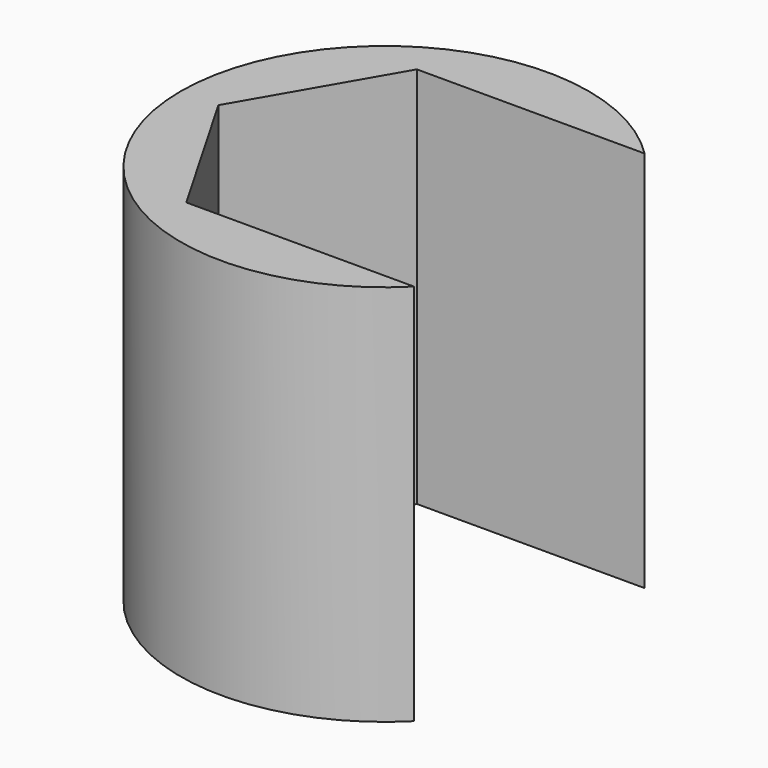
from build123d import *

# Parameters (mm, degrees)
F0_R     = 27.098
F1_DEPTH = 50.8
F2_W     = 42.396251
F2_H     = 38.265
F3_DEPTH = 50.8


with BuildPart() as f1:
    # F0 (on Top) → F1 (new body)
    with BuildSketch(Plane.XY):
        Circle(F0_R)
        Polygon((11.046154, 19.1325), (22.092308, 0), (11.046154, -19.1325), (-11.046154, -19.1325), (-22.092308, 0), (-11.046154, 19.1325), align=None, mode=Mode.SUBTRACT)
    extrude(amount=F1_DEPTH)

    # F2 (on face) → F3 (cut)
    with BuildSketch(Plane.XY.offset(50.8)):
        with Locations((21.198125, 0)):
            Rectangle(F2_W, F2_H)
    extrude(amount=-F3_DEPTH, mode=Mode.SUBTRACT)


solid = f1.part
